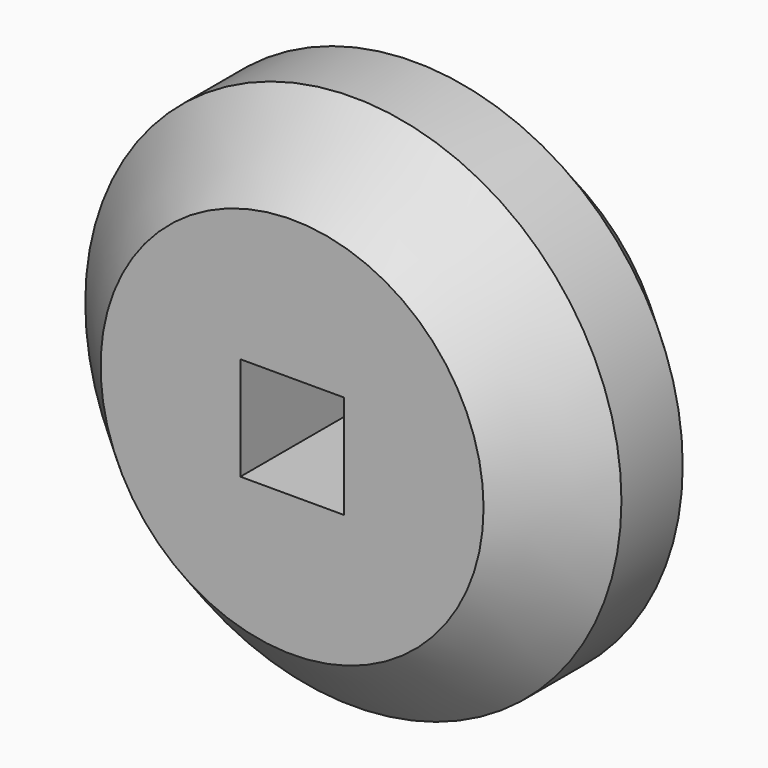
from build123d import *

# Parameters (mm, degrees)
F0_R     = 8.89
F0_W     = 3.429
F0_H     = 3.429
F1_DEPTH = 7.62
F2_SIZE  = 2.54


with BuildPart() as f1:
    # F0 (on Front) → F1 (new body)
    with BuildSketch(Plane.XZ):
        Circle(F0_R)
        Rectangle(F0_W, F0_H, mode=Mode.SUBTRACT)
    extrude(amount=F1_DEPTH)

    # F2
    f2_edges = [f1.edges().sort_by_distance(p)[0] for p in [
        (-8.89, 0, 0),
        (-8.89, -7.62, 0),
    ]]
    chamfer(f2_edges, length=F2_SIZE)


solid = f1.part
